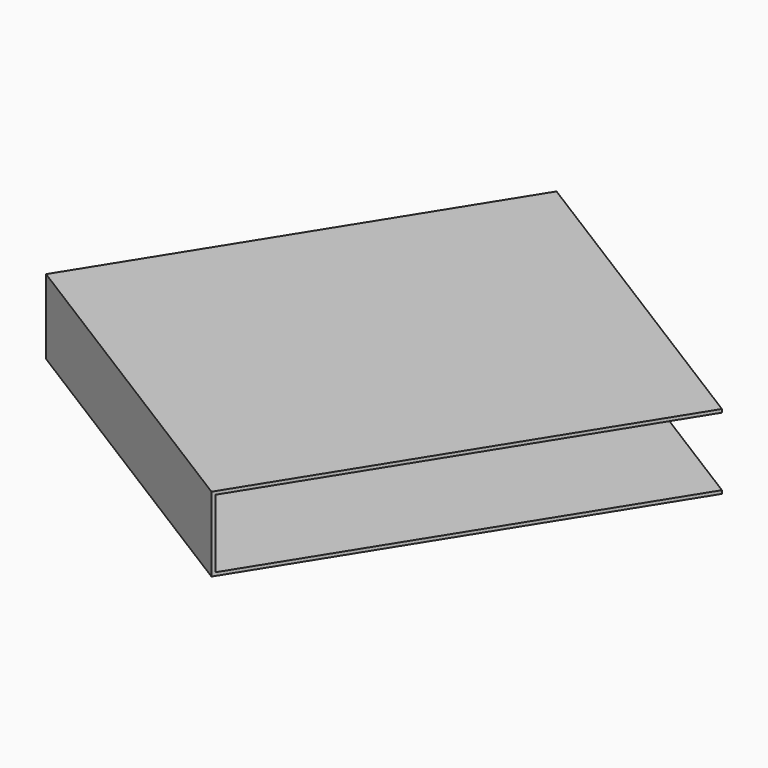
from build123d import *

# Parameters (mm, degrees)
BOX184_W               = 6
BOX184_H               = 6.45
BOX184_DEPTH           = 1.05
BOX183_W               = 6
BOX183_H               = 6.5
BOX183_DEPTH           = 1.15
CUT092_PLACEMENT_ANGLE = 148


with BuildPart() as small_cu_gnd_electrode076:
    # Box184 → Box184 (new body)
    with BuildSketch(Plane.XY.offset(0.05)):
        with Locations((3, 3.225)):
            Rectangle(BOX184_W, BOX184_H)
    extrude(amount=BOX184_DEPTH)


with BuildPart() as small_cu_electrode_short_axis_gnd009:
    # Box183 → Box183 (new body)
    with BuildSketch(Plane.XY):
        with Locations((3, 3.25)):
            Rectangle(BOX183_W, BOX183_H)
    extrude(amount=BOX183_DEPTH)

    # Cut092: cut Small Cu GND Electrode076
    add(small_cu_gnd_electrode076.part, mode=Mode.SUBTRACT)


with BuildPart() as small_cu_electrode_short_axis_gnd009_1:
    # Cut092 placement: moved
    add(small_cu_electrode_short_axis_gnd009.part.moved(Location((13.251142, 19.640047, 1.59))).rotate(Axis((13.251142, 19.640047, 1.59), (0, 0, 1)), CUT092_PLACEMENT_ANGLE))


solid = small_cu_electrode_short_axis_gnd009_1.part
